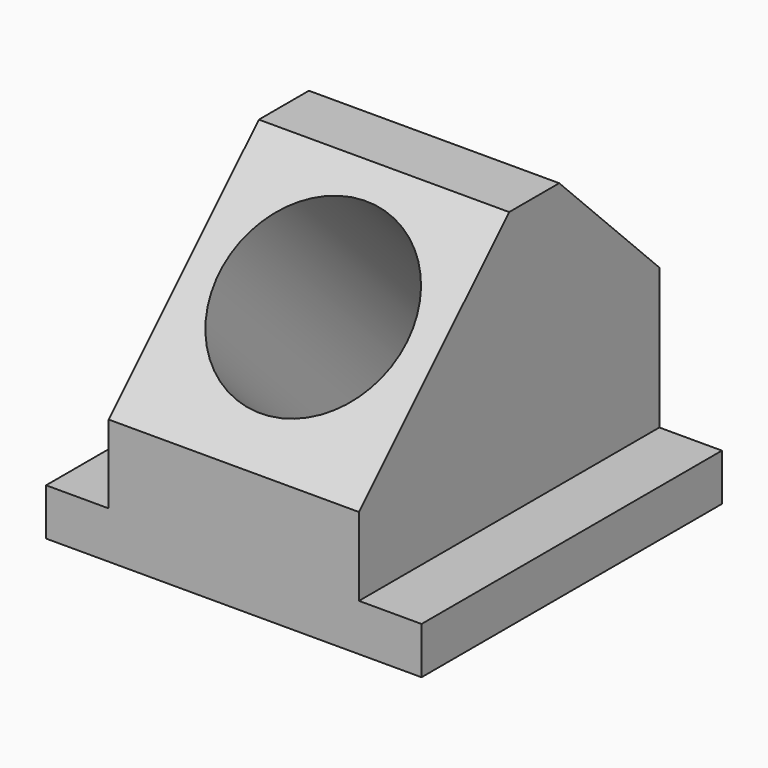
from build123d import *

# Parameters (mm, degrees)
F1_DEPTH = 9.525
F2_W     = 50.8
F2_H     = 76.2
F3_DEPTH = 53.975
F5_DEPTH = 50.8
F6_R     = 19.05
F7_DEPTH = 76.2


with BuildPart() as f1:
    # F0 (on Top) → F1 (new body)
    with BuildSketch(Plane.XY):
        Polygon((0, 38.1), (-38.1, 38.1), (-38.1, 0), (-38.1, -38.1), (0, -38.1), (38.1, -38.1), (38.1, 0), (38.1, 38.1), align=None)
    extrude(amount=F1_DEPTH)

    # F2 (on face) → F3 (join)
    with BuildSketch(Plane.XY.offset(9.525)):
        Rectangle(F2_W, F2_H)
    extrude(amount=F3_DEPTH)

    # F4 (on face) → F5 (cut)
    with BuildSketch(Plane(origin=(-25.4, 0, 0), x_dir=(0, -1, 0), z_dir=(-1, 0, 0))):
        Polygon((-38.1, 63.5), (-38.1, 38.1), (-12.7, 63.5), align=None)
        Polygon((38.1, 63.5), (0, 63.5), (38.1, 25.4), align=None)
    extrude(amount=-F5_DEPTH, mode=Mode.SUBTRACT)

    # F6 (on face) → F7 (cut)
    with BuildSketch(Plane(origin=(0, -31.75, 31.75), x_dir=(1, 0, 0), z_dir=(0, -0.707107, 0.707107))):
        with Locations((0, 19.501281)):
            Circle(F6_R)
    extrude(amount=-F7_DEPTH, mode=Mode.SUBTRACT)


solid = f1.part
